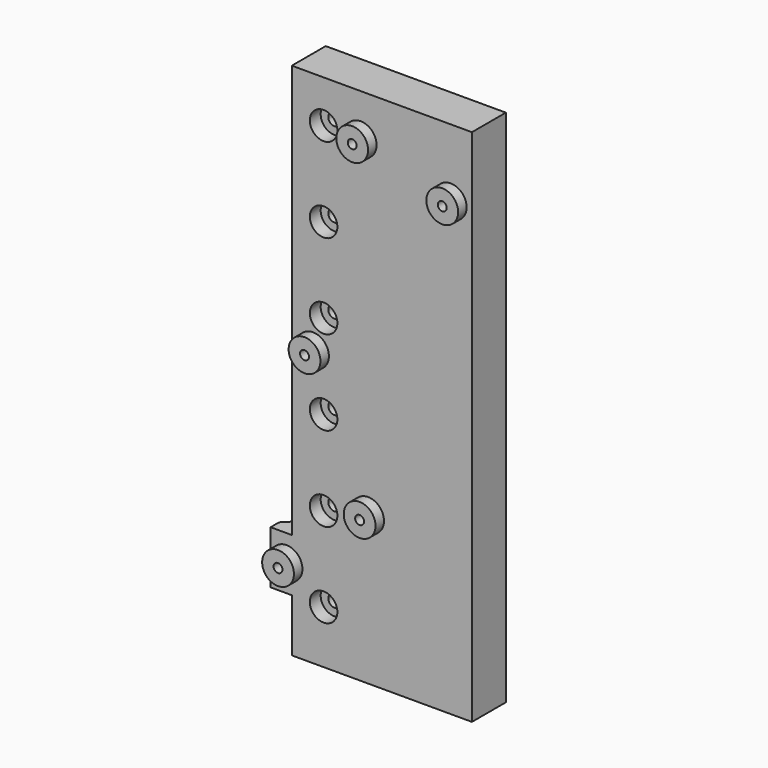
from build123d import *

# Parameters (mm, degrees)
SKETCH014_W         = 85
SKETCH014_H         = 245
PAD009_DEPTH        = 20
SKETCH015_R         = 7.5
PAD010_DEPTH        = 10
PAD011_DEPTH        = 25
SKETCH017_R         = 2.1
HOLE005_DEPTH       = 25.001
HOLE006_D           = 5.8
HOLE006_DEPTH       = 25
HOLE006_CBORE_D     = 13
HOLE006_CBORE_DEPTH = 6.4


with BuildPart() as part:
    # Sketch014 → Pad009 (new body)
    with BuildSketch(Plane.XZ.offset(25)):
        with Locations((87.5, 127.5)):
            Rectangle(SKETCH014_W, SKETCH014_H)
    extrude(amount=PAD009_DEPTH)

    # Sketch015 → Pad010 (join)
    with BuildSketch(Plane.XZ.offset(40)):
        with Locations((77.5, 230)):
            Circle(SKETCH015_R)
        with Locations((120, 218)):
            Circle(SKETCH015_R)
        with Locations((55, 135)):
            Circle(SKETCH015_R)
        with Locations((42.5, 42.5)):
            Circle(SKETCH015_R)
        with Locations((81, 75)):
            Circle(SKETCH015_R)
    extrude(amount=PAD010_DEPTH)

    # Sketch016 → Pad011 (join)
    with BuildSketch(Plane.XY.offset(30)):
        Polygon((35, -40), (45, -30), (45, -45), (35, -45), align=None)
    extrude(amount=PAD011_DEPTH)

    # Sketch017 → Hole005 (cut, through all)
    with BuildSketch(Plane.XZ.offset(50)):
        with Locations((77.5, 230)):
            Circle(SKETCH017_R)
        with Locations((120, 218)):
            Circle(SKETCH017_R)
        with Locations((55, 135)):
            Circle(SKETCH017_R)
        with Locations((42.5, 42.5)):
            Circle(SKETCH017_R)
        with Locations((81, 75)):
            Circle(SKETCH017_R)
    extrude(amount=-HOLE005_DEPTH, mode=Mode.SUBTRACT)

    # Hole006
    with Locations(Plane.XZ.offset(45)):
        with Locations((60, 230), (60, 190), (60, 150), (60, 110), (60, 70), (60, 30)):
            CounterBoreHole(HOLE006_D / 2, HOLE006_CBORE_D / 2, HOLE006_CBORE_DEPTH, depth=HOLE006_DEPTH)


solid = part.part
